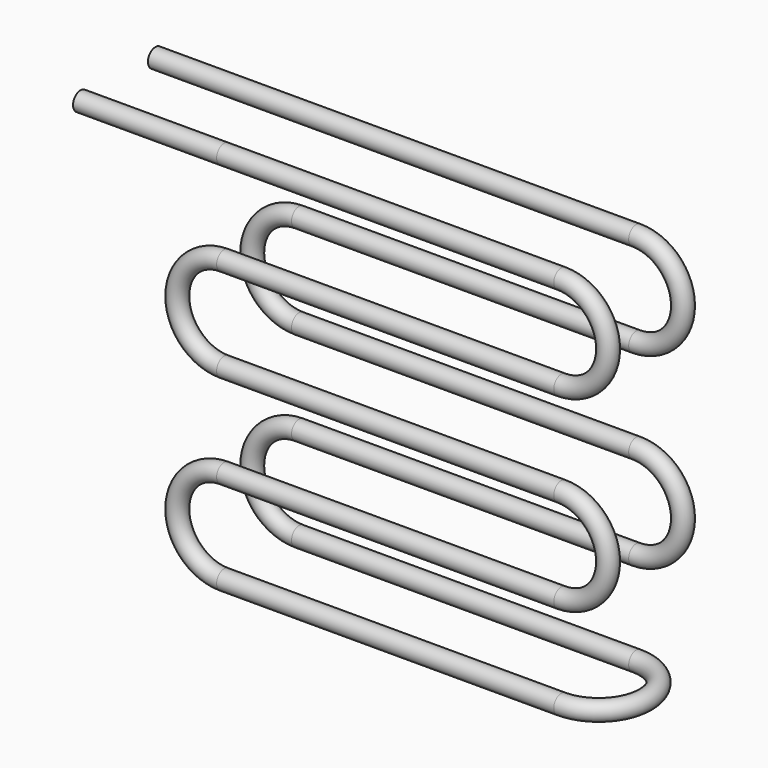
from build123d import *

# Parameters (mm, degrees)
F2_R      = 4.7625
F2_R_2    = 3.5179
F6_R      = 4.7625
F6_R_2    = 3.5179
F10_R     = 4.7625
F10_R_2   = 3.5179
F12_R     = 4.7625
F12_R_2   = 3.5179
F13_DEPTH = 73.025


with BuildPart() as f3:
    # F3: sweep along a path in F0
    with BuildLine(Plane.XZ) as f3_path:
        Line((-55.7347305506, 0), (115.7152694494, 0))
        ThreePointArc((115.7152694494, 0), (139.5277694494, -23.8125), (115.7152694494, -47.625))
        Line((115.7152694494, -47.625), (-55.7347305506, -47.625))
        ThreePointArc((-55.7347305506, -47.625), (-79.5472305506, -71.4375), (-55.7347305506, -95.25))
        Line((-55.7347305506, -95.25), (115.7152694494, -95.25))
        ThreePointArc((115.7152694494, -95.25), (139.5277694494, -119.0625), (115.7152694494, -142.875))
        Line((115.7152694494, -142.875), (-55.7347305506, -142.875))
        ThreePointArc((-55.7347305506, -142.875), (-79.5472305506, -166.6875), (-55.7347305506, -190.5))
        Line((-55.7347305506, -190.5), (115.7152694494, -190.5))
    # F2 (on plane+point) → F3 (sweep)
    with BuildSketch(Plane.YZ.offset(-55.7347305506)):
        Circle(F2_R)
        Circle(F2_R_2, mode=Mode.SUBTRACT)
    sweep(path=f3_path.line)

    # F7: sweep along a path in F5
    with BuildLine(Plane.XY.offset(-190.5)) as f7_path:
        ThreePointArc((115.7152694494, 0), (139.5277694494, 23.8125), (115.7152694494, 47.625))
    # F6 (on face) → F7 (sweep)
    with BuildSketch(Plane.YZ.offset(115.7152694494)):
        with Locations((0, -190.5)):
            Circle(F6_R)
        with Locations((0, -190.5)):
            Circle(F6_R_2, mode=Mode.SUBTRACT)
    sweep(path=f7_path.line)

    # F11: sweep along a path in F9
    with BuildLine(Plane.XZ.offset(-47.625)) as f11_path:
        Line((115.7152694494, -190.5), (-55.7347305506, -190.5))
        ThreePointArc((-55.7347305506, -190.5), (-79.5472305506, -166.6875), (-55.7347305506, -142.875))
        Line((-55.7347305506, -142.875), (115.7152694494, -142.875))
        ThreePointArc((115.7152694494, -142.875), (139.5277694494, -119.0625), (115.7152694494, -95.25))
        Line((115.7152694494, -95.25), (-55.7347305506, -95.25))
        ThreePointArc((-55.7347305506, -95.25), (-79.5472305506, -71.4375), (-55.7347305506, -47.625))
        Line((-55.7347305506, -47.625), (115.7152694494, -47.625))
        ThreePointArc((115.7152694494, -47.625), (139.5277694494, -23.8125), (115.7152694494, 0))
        Line((115.7152694494, 0), (-55.7347305506, 0))
    # F10 (on face) → F11 (sweep)
    with BuildSketch(Plane(origin=(115.7152694494, 0, 0), x_dir=(0, -1, 0), z_dir=(-1, 0, 0))):
        with Locations((-47.625, -190.5)):
            Circle(F10_R)
        with Locations((-47.625, -190.5)):
            Circle(F10_R_2, mode=Mode.SUBTRACT)
    sweep(path=f11_path.line)

    # F12 (on face) → F13 (join)
    with BuildSketch(Plane(origin=(-55.7347305506, 0, 0), x_dir=(0, -1, 0), z_dir=(-1, 0, 0))):
        with Locations((-47.625, 0)):
            Circle(F12_R)
        with Locations((-47.625, 0)):
            Circle(F12_R_2, mode=Mode.SUBTRACT)
        Circle(F12_R)
        Circle(F12_R_2, mode=Mode.SUBTRACT)
    extrude(amount=F13_DEPTH)


solid = f3.part
